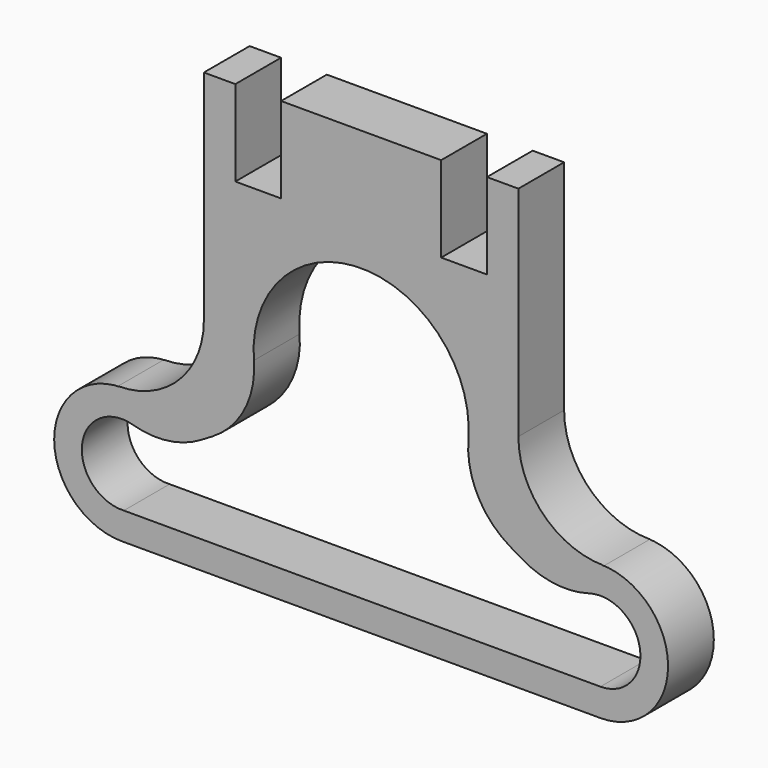
from build123d import *

# Parameters (mm, degrees)
F1_DEPTH = 2
F3_DEPTH = 2.001


with BuildPart() as f1:
    # F0 (on Front) → F1 (new body)
    with BuildSketch(Plane.XZ):
        with BuildLine():
            Line((4.4, 8), (4.4, 5))
            Line((4.4, 5), (2.8, 5))
            Line((2.8, 5), (2.8, 8))
            Line((2.8, 8), (-2.8, 8))
            Line((-2.8, 8), (-2.8, 5))
            Line((-2.8, 5), (-4.4, 5))
            Line((-4.4, 5), (-4.4, 8))
            Line((-4.4, 8), (-5.5, 8))
            Line((-5.5, 8), (-5.5, 5))
            Line((-5.5, 5), (-5.5, 0.366807))
            ThreePointArc((-5.5, 0.366807), (-6.37868, -1.754513), (-8.5, -2.633193))
            Line((-8.5, -2.633193), (-8.368722, -2.633193))
            ThreePointArc((-8.368722, -2.633193), (-10.735529, -5), (-8.368722, -7.366807))
            Line((-8.368722, -7.366807), (8.368722, -7.366807))
            ThreePointArc((8.368722, -7.366807), (10.735529, -5), (8.368722, -2.633193))
            Line((8.368722, -2.633193), (8.5, -2.633193))
            ThreePointArc((8.5, -2.633193), (6.37868, -1.754513), (5.5, 0.366807))
            Line((5.5, 0.366807), (5.5, 5))
            Line((5.5, 5), (5.5, 8))
            Line((5.5, 8), (4.4, 8))
        make_face()
    extrude(amount=F1_DEPTH)

    # F2 (on face) → F3 (cut, through all)
    with BuildSketch(Plane.XZ.offset(2)):
        with BuildLine():
            ThreePointArc((5.203029, -3.108616), (4.076106, -1.909689), (3.751051, -0.296703))
            ThreePointArc((3.751051, -0.296703), (0, 3.762767), (-3.751051, -0.296703))
            ThreePointArc((-3.751051, -0.296703), (-4.076106, -1.909689), (-5.203029, -3.108616))
            Line((-5.203029, -3.108616), (-5.605626, -3.349153))
            ThreePointArc((-5.605626, -3.349153), (-6.760531, -3.749147), (-7.979135, -3.655299))
            ThreePointArc((-7.979135, -3.655299), (-9.759296, -4.837816), (-8.299049, -6.398265))
            Line((-8.299049, -6.398265), (8.368576, -6.4))
            ThreePointArc((8.368576, -6.4), (9.754839, -4.803326), (7.979135, -3.655299))
            ThreePointArc((7.979135, -3.655299), (6.760531, -3.749147), (5.605626, -3.349153))
            Line((5.605626, -3.349153), (5.203029, -3.108616))
        make_face()
    extrude(amount=-F3_DEPTH, mode=Mode.SUBTRACT)


solid = f1.part
